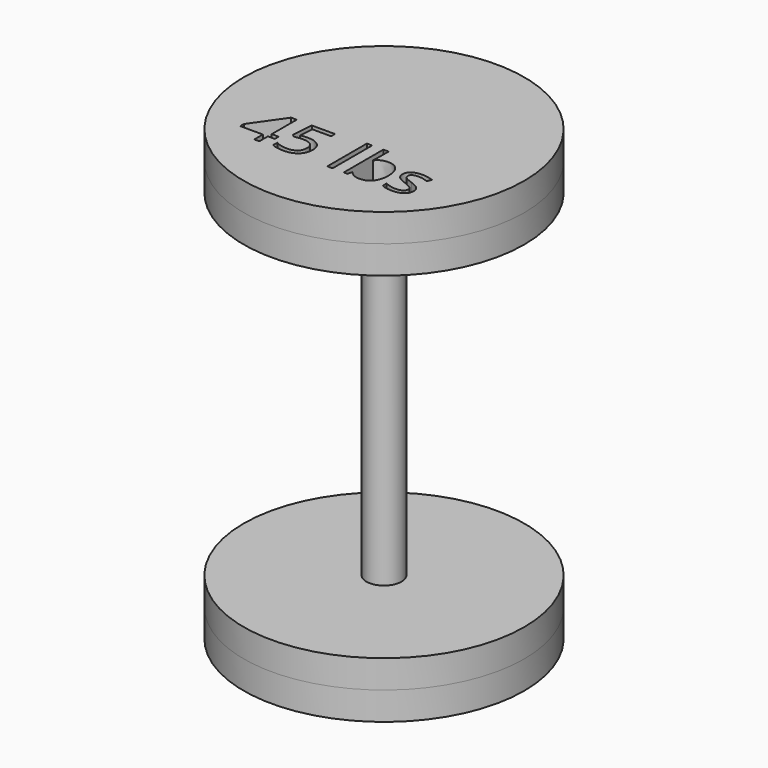
from build123d import *

# Parameters (mm, degrees)
F0_R      = 25.4
F1_DEPTH  = 5.08
F2_D      = 6.35
F3_R      = 3.1703607429
F4_DEPTH  = 76.2
F5_R      = 25.4
F5_W      = 0.9557696558
F5_H      = 8.9555064278
F6_DEPTH  = 5.08
F8_R      = 25.4
F9_DEPTH  = 5.08
F11_R     = 25.4
F12_DEPTH = 5.08


with BuildPart() as f1:
    # F0 (on Top) → F1 (new body)
    with BuildSketch(Plane.XY):
        Circle(F0_R)
    extrude(amount=F1_DEPTH)

    # F2 (through all)
    with Locations(Plane(origin=(0, 0, 0), x_dir=(1, 0, 0), z_dir=(0, 0, -1))):
        with Locations((0, 0)):
            Hole(F2_D / 2)


with BuildPart() as f4:
    # F3 (on Top) → F4 (new body)
    with BuildSketch(Plane.XY):
        Circle(F3_R)
    extrude(amount=F4_DEPTH)


with BuildPart() as f6:
    # F5 (on Top) → F6 (new body)
    with BuildSketch(Plane.XY):
        Circle(F5_R)
        Polygon((-10.1662005745, -11.1382818225), (-10.1662005745, -12.0074981569), (-11.4147782751, -12.0074981569), (-11.4147782751, -13.9411361888), (-12.3300336102, -13.9411361888), (-12.3300336102, -12.0074981569), (-16.4219799978, -12.0074981569), (-16.4219799978, -11.1732714631), (-12.4276362919, -5.4810094092), (-11.4147782751, -5.4810094092), (-11.4147782751, -11.1382818225), align=None, mode=Mode.SUBTRACT)
        with BuildLine():
            add(Edge.make_bspline(
                [(-8.0428818595, -8.9339344662), (-7.3817618086, -8.801342144), (-6.7243248777, -8.801342144)],
                knots=[0, 0, 0, 1, 1, 1], degree=2))
            add(Edge.make_bspline(
                [(-6.7243248777, -8.801342144), (-5.3947185358, -8.801342144), (-4.6323126832, -9.4606206349)],
                knots=[0, 0, 0, 1, 1, 1], degree=2))
            add(Edge.make_bspline(
                [(-4.6323126832, -9.4606206349), (-3.8699068306, -10.1198991257), (-3.8699068306, -11.2653494646)],
                knots=[0, 0, 0, 1, 1, 1], degree=2))
            add(Edge.make_bspline(
                [(-3.8699068306, -11.2653494646), (-3.8699068306, -12.5710155262), (-4.7013711843, -13.3140849985)],
                knots=[0, 0, 0, 1, 1, 1], degree=2))
            add(Edge.make_bspline(
                [(-4.7013711843, -13.3140849985), (-5.5328355381, -14.0571544707), (-6.9950342022, -14.0571544707)],
                knots=[0, 0, 0, 1, 1, 1], degree=2))
            add(Edge.make_bspline(
                [(-6.9950342022, -14.0571544707), (-8.4167185457, -14.0571544707), (-9.164391918, -13.6022891432)],
                knots=[0, 0, 0, 1, 1, 1], degree=2))
            Line((-9.164391918, -13.6022891432), (-9.164391918, -12.681509128))
            add(Edge.make_bspline(
                [(-9.164391918, -12.681509128), (-8.7629318314, -12.9393275323), (-8.1644248215, -13.0866523347)],
                knots=[0, 0, 0, 1, 1, 1], degree=2))
            add(Edge.make_bspline(
                [(-8.1644248215, -13.0866523347), (-7.5659178116, -13.2339771371), (-6.983984842, -13.2339771371)],
                knots=[0, 0, 0, 1, 1, 1], degree=2))
            add(Edge.make_bspline(
                [(-6.983984842, -13.2339771371), (-5.9711268253, -13.2339771371), (-5.410371796, -12.7560923092)],
                knots=[0, 0, 0, 1, 1, 1], degree=2))
            add(Edge.make_bspline(
                [(-5.410371796, -12.7560923092), (-4.8496167668, -12.2782074814), (-4.8496167668, -11.3740015064)],
                knots=[0, 0, 0, 1, 1, 1], degree=2))
            add(Edge.make_bspline(
                [(-4.8496167668, -11.3740015064), (-4.8496167668, -9.6134701174), (-7.0060835624, -9.6134701174)],
                knots=[0, 0, 0, 1, 1, 1], degree=2))
            add(Edge.make_bspline(
                [(-7.0060835624, -9.6134701174), (-7.5530268914, -9.6134701174), (-8.4682822265, -9.7810520801)],
                knots=[0, 0, 0, 1, 1, 1], degree=2))
            Line((-8.4682822265, -9.7810520801), (-8.9636618747, -9.4643037549))
            Line((-8.9636618747, -9.4643037549), (-8.6469135495, -5.5270484099))
            Line((-8.6469135495, -5.5270484099), (-4.4628891604, -5.5270484099))
            Line((-4.4628891604, -5.5270484099), (-4.4628891604, -6.4073141045))
            Line((-4.4628891604, -6.4073141045), (-7.829260896, -6.4073141045))
            Line((-7.829260896, -6.4073141045), (-8.0428818595, -8.9339344662))
        make_face(mode=Mode.SUBTRACT)
        with Locations((1.3610444357, -9.4633829749)):
            Rectangle(F5_W, F5_H, mode=Mode.SUBTRACT)
        with BuildLine():
            add(Edge.make_bspline(
                [(4.8204149528, -8.4735444586), (5.4870596838, -7.530665723), (6.8000919855, -7.530665723)],
                knots=[0, 0, 0, 1, 1, 1], degree=2))
            add(Edge.make_bspline(
                [(6.8000919855, -7.530665723), (8.043145006, -7.530665723), (8.7309676774, -8.379624897)],
                knots=[0, 0, 0, 1, 1, 1], degree=2))
            add(Edge.make_bspline(
                [(8.7309676774, -8.379624897), (9.4187903487, -9.228584071), (9.4187903487, -10.7810191766)],
                knots=[0, 0, 0, 1, 1, 1], degree=2))
            add(Edge.make_bspline(
                [(9.4187903487, -10.7810191766), (9.4187903487, -12.3352958423), (8.7254429973, -13.1962251565)],
                knots=[0, 0, 0, 1, 1, 1], degree=2))
            add(Edge.make_bspline(
                [(8.7254429973, -13.1962251565), (8.0320956458, -14.0571544707), (6.8000919855, -14.0571544707)],
                knots=[0, 0, 0, 1, 1, 1], degree=2))
            add(Edge.make_bspline(
                [(6.8000919855, -14.0571544707), (6.1831693753, -14.0571544707), (5.6739780269, -13.829721807)],
                knots=[0, 0, 0, 1, 1, 1], degree=2))
            add(Edge.make_bspline(
                [(5.6739780269, -13.829721807), (5.1647866785, -13.6022891432), (4.8204149528, -13.1290082154)],
                knots=[0, 0, 0, 1, 1, 1], degree=2))
            Line((4.8204149528, -13.1290082154), (4.7504356717, -13.1290082154))
            Line((4.7504356717, -13.1290082154), (4.5497056284, -13.9411361888))
            Line((4.5497056284, -13.9411361888), (3.864645297, -13.9411361888))
            Line((3.864645297, -13.9411361888), (3.864645297, -4.985629761))
            Line((3.864645297, -4.985629761), (4.8204149528, -4.985629761))
            Line((4.8204149528, -4.985629761), (4.8204149528, -7.1623537169))
            add(Edge.make_bspline(
                [(4.8204149528, -7.1623537169), (4.8204149528, -7.893453049), (4.7743759521, -8.4735444586)],
                knots=[0, 0, 0, 1, 1, 1], degree=2))
            Line((4.7743759521, -8.4735444586), (4.8204149528, -8.4735444586))
        make_face(mode=Mode.SUBTRACT)
        with BuildLine():
            add(Edge.make_bspline(
                [(14.7611559969, -11.1787961432), (15.1552498434, -11.5931471501), (15.1552498434, -12.2211191204)],
                knots=[0, 0, 0, 1, 1, 1], degree=2))
            add(Edge.make_bspline(
                [(15.1552498434, -12.2211191204), (15.1552498434, -13.1013848149), (14.4996544726, -13.5792696428)],
                knots=[0, 0, 0, 1, 1, 1], degree=2))
            add(Edge.make_bspline(
                [(14.4996544726, -13.5792696428), (13.8440591018, -14.0571544707), (12.6580944422, -14.0571544707)],
                knots=[0, 0, 0, 1, 1, 1], degree=2))
            add(Edge.make_bspline(
                [(12.6580944422, -14.0571544707), (11.4039920615, -14.0571544707), (10.7023576899, -13.6593775042)],
                knots=[0, 0, 0, 1, 1, 1], degree=2))
            Line((10.7023576899, -13.6593775042), (10.7023576899, -12.7735871295))
            add(Edge.make_bspline(
                [(10.7023576899, -12.7735871295), (11.1572230174, -13.0037821333), (11.677463726, -13.1354536755)],
                knots=[0, 0, 0, 1, 1, 1], degree=2))
            add(Edge.make_bspline(
                [(11.677463726, -13.1354536755), (12.1977044346, -13.2671252177), (12.6820347226, -13.2671252177)],
                knots=[0, 0, 0, 1, 1, 1], degree=2))
            add(Edge.make_bspline(
                [(12.6820347226, -13.2671252177), (13.4297080949, -13.2671252177), (13.8320889616, -13.0286431937)],
                knots=[0, 0, 0, 1, 1, 1], degree=2))
            add(Edge.make_bspline(
                [(13.8320889616, -13.0286431937), (14.2344698282, -12.7901611698), (14.2344698282, -12.3003062017)],
                knots=[0, 0, 0, 1, 1, 1], degree=2))
            add(Edge.make_bspline(
                [(14.2344698282, -12.3003062017), (14.2344698282, -11.9319941956), (13.9158799429, -11.6704926713)],
                knots=[0, 0, 0, 1, 1, 1], degree=2))
            add(Edge.make_bspline(
                [(13.9158799429, -11.6704926713), (13.5972900577, -11.408991147), (12.6691438024, -11.0517285011)],
                knots=[0, 0, 0, 1, 1, 1], degree=2))
            add(Edge.make_bspline(
                [(12.6691438024, -11.0517285011), (11.7888781078, -10.7239308157), (11.4178037617, -10.4790033317)],
                knots=[0, 0, 0, 1, 1, 1], degree=2))
            add(Edge.make_bspline(
                [(11.4178037617, -10.4790033317), (11.0467294156, -10.2340758476), (10.8653357526, -9.9237729825)],
                knots=[0, 0, 0, 1, 1, 1], degree=2))
            add(Edge.make_bspline(
                [(10.8653357526, -9.9237729825), (10.6839420896, -9.6134701174), (10.6839420896, -9.1825450703)],
                knots=[0, 0, 0, 1, 1, 1], degree=2))
            add(Edge.make_bspline(
                [(10.6839420896, -9.1825450703), (10.6839420896, -8.4109314175), (11.31191406, -7.9643531102)],
                knots=[0, 0, 0, 1, 1, 1], degree=2))
            add(Edge.make_bspline(
                [(11.31191406, -7.9643531102), (11.9398860303, -7.5177748028), (13.0319311284, -7.5177748028)],
                knots=[0, 0, 0, 1, 1, 1], degree=2))
            add(Edge.make_bspline(
                [(13.0319311284, -7.5177748028), (14.0503138252, -7.5177748028), (15.0244990812, -7.9321258096)],
                knots=[0, 0, 0, 1, 1, 1], degree=2))
            Line((15.0244990812, -7.9321258096), (14.6838104756, -8.7092641425))
            add(Edge.make_bspline(
                [(14.6838104756, -8.7092641425), (13.73540706, -8.318853416), (12.9637934072, -8.318853416)],
                knots=[0, 0, 0, 1, 1, 1], degree=2))
            add(Edge.make_bspline(
                [(12.9637934072, -8.318853416), (12.284257756, -8.318853416), (11.9389652503, -8.5315535995)],
                knots=[0, 0, 0, 1, 1, 1], degree=2))
            add(Edge.make_bspline(
                [(11.9389652503, -8.5315535995), (11.5936727446, -8.744253783), (11.5936727446, -9.1180904692)],
                knots=[0, 0, 0, 1, 1, 1], degree=2))
            add(Edge.make_bspline(
                [(11.5936727446, -9.1180904692), (11.5936727446, -9.3722257534), (11.7235027268, -9.5499362963)],
                knots=[0, 0, 0, 1, 1, 1], degree=2))
            add(Edge.make_bspline(
                [(11.7235027268, -9.5499362963), (11.8533327089, -9.7276468393), (12.1406160736, -9.8887833419)],
                knots=[0, 0, 0, 1, 1, 1], degree=2))
            add(Edge.make_bspline(
                [(12.1406160736, -9.8887833419), (12.4278994384, -10.0499198446), (13.2455520919, -10.3556188096)],
                knots=[0, 0, 0, 1, 1, 1], degree=2))
            add(Edge.make_bspline(
                [(13.2455520919, -10.3556188096), (14.3670621504, -10.7644451364), (14.7611559969, -11.1787961432)],
                knots=[0, 0, 0, 1, 1, 1], degree=2))
        make_face(mode=Mode.SUBTRACT)
    extrude(amount=F6_DEPTH)


with BuildPart() as f6_1:
    # F7: moved
    add(f6.part.moved(Location((0, 0, 76.2))))


with BuildPart() as f9:
    # F8 (on Top) → F9 (new body)
    with BuildSketch(Plane.XY):
        Circle(F8_R)
    extrude(amount=F9_DEPTH)


with BuildPart() as f9_1:
    # F10: moved
    add(f9.part.moved(Location((0, 0, 5.08))))


with BuildPart() as f12:
    # F11 (on Top) → F12 (new body)
    with BuildSketch(Plane.XY):
        Circle(F11_R)
    extrude(amount=F12_DEPTH)


with BuildPart() as f1_1:
    # F13: moved
    add(f1.part.moved(Location((0, 0, 71.12))))


solid = Compound([f4.part, f6_1.part, f9_1.part, f12.part, f1_1.part])
